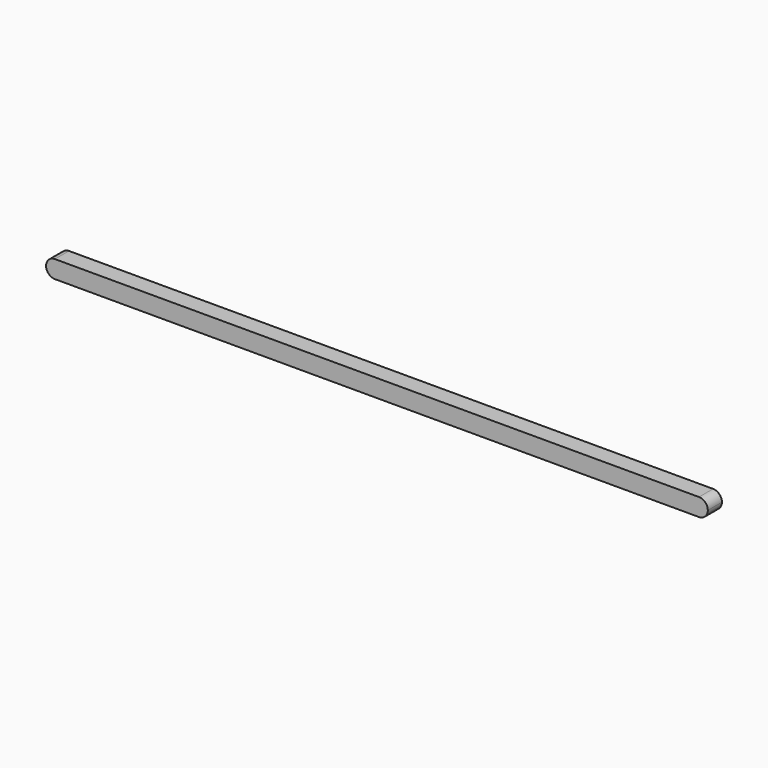
from build123d import *

# Parameters (mm, degrees)
F1_DEPTH = 6


with BuildPart() as f1:
    # F0 (on Front) → F1 (new body, symmetric)
    with BuildSketch(Plane.XZ):
        with BuildLine():
            Line((219, 6), (-219, 6))
            ThreePointArc((-219, 6), (-223.242641, 4.242641), (-225, 0))
            ThreePointArc((-225, 0), (-223.242641, -4.242641), (-219, -6))
            Line((-219, -6), (219, -6))
            ThreePointArc((219, -6), (223.242641, -4.242641), (225, 0))
            ThreePointArc((225, 0), (223.242641, 4.242641), (219, 6))
        make_face()
    extrude(amount=F1_DEPTH, both=True)


solid = f1.part
